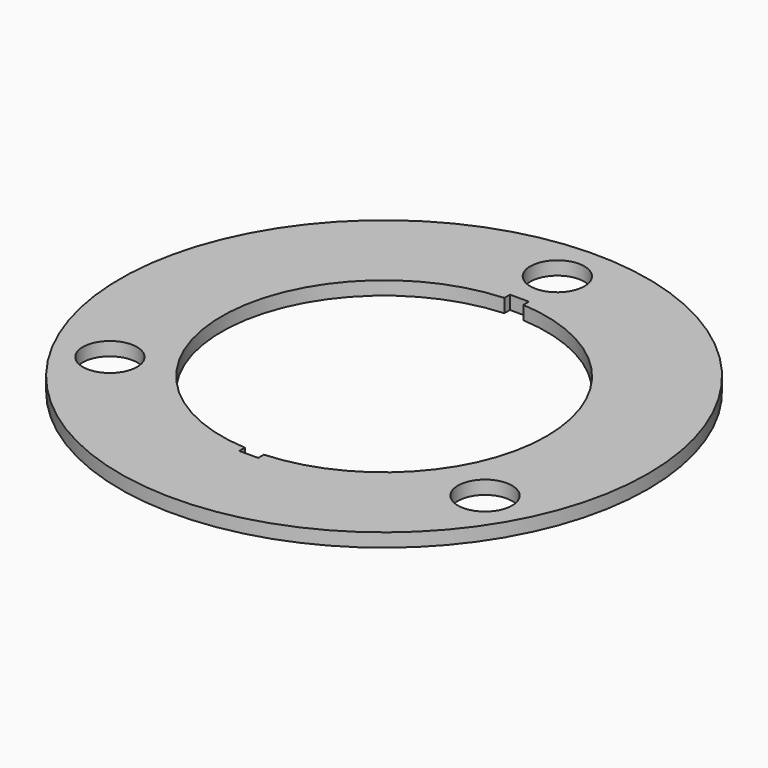
from build123d import *

# Parameters (mm, degrees)
F0_R     = 195
F0_R_2   = 20
F1_DEPTH = 10


with BuildPart() as f1:
    # F0 (on Top) → F1 (new body)
    with BuildSketch(Plane.XY):
        Circle(F0_R)
        with Locations((-138.564065, -80)):
            Circle(F0_R_2, mode=Mode.SUBTRACT)
        with Locations((138.564065, -80)):
            Circle(F0_R_2, mode=Mode.SUBTRACT)
        with BuildLine():
            ThreePointArc((7, 119.795659), (87.292611, 82.340755), (120, 0))
            ThreePointArc((120, 0), (87.292611, -82.340755), (7, -119.795659))
            Line((7, -119.795659), (7, -125))
            Line((7, -125), (-7, -125))
            Line((-7, -125), (-7, -119.795659))
            ThreePointArc((-7, -119.795659), (-120, 0), (-7, 119.795659))
            Line((-7, 119.795659), (-7, 125))
            Line((-7, 125), (7, 125))
            Line((7, 125), (7, 119.795659))
        make_face(mode=Mode.SUBTRACT)
        with Locations((0, 160)):
            Circle(F0_R_2, mode=Mode.SUBTRACT)
    extrude(amount=F1_DEPTH)


solid = f1.part
